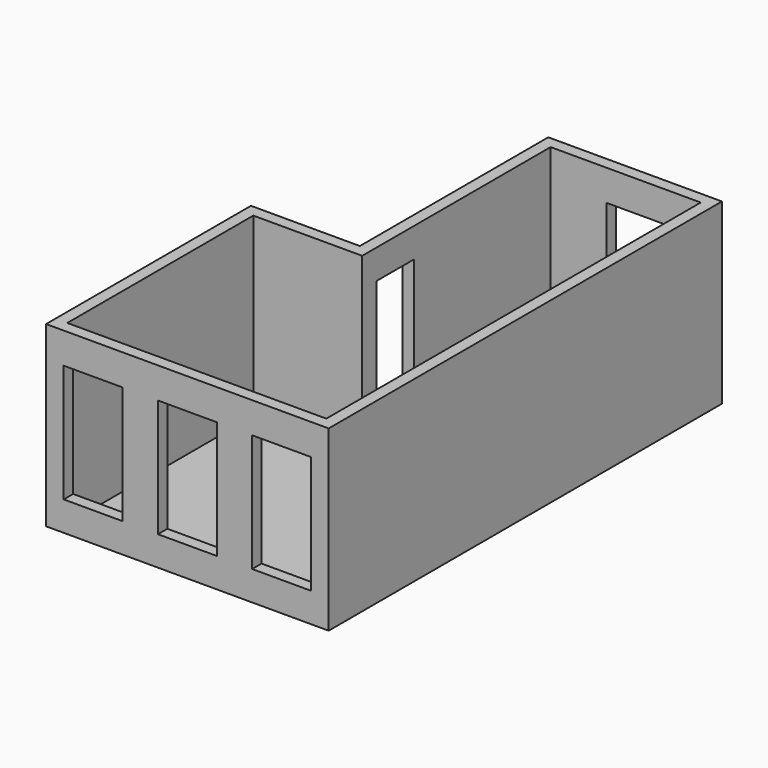
from build123d import *

# Parameters (mm, degrees)
F1_DEPTH  = 25
F4_DEPTH  = 3000
F5_W      = 1000
F5_H      = 2000
F6_DEPTH  = 200
F7_W      = 1200
F7_H      = 2000
F8_DEPTH  = 200
F9_W      = 800
F9_H      = 2500
F10_DEPTH = 200
F11_W     = 450
F11_H     = 2500
F12_DEPTH = 2000


with BuildPart() as f1:
    # F0 (on Top) → F1 (new body)
    with BuildSketch(Plane.XY):
        Polygon((0, 4350), (0, 0), (4800, 0), (4800, 8350), (1850, 8350), (1850, 4350), align=None)
    extrude(amount=F1_DEPTH)

    # F3 (on face) → F4 (join)
    with BuildSketch(Plane.XY.offset(25)):
        Polygon((0, 0), (4800, 0), (4800, 8350), (1850, 8350), (1850, 4350), (0, 4350), align=None)
        Polygon((4600, 8150), (4600, 200), (200, 200), (200, 4150), (2050, 4150), (2050, 8150), align=None, mode=Mode.SUBTRACT)
    extrude(amount=F4_DEPTH)

    # F5 (on face) → F6 (cut, through all)
    with BuildSketch(Plane.XZ):
        with Locations((800, 1500)):
            Rectangle(F5_W, F5_H)
        with Locations((2400, 1500)):
            Rectangle(F5_W, F5_H)
        with Locations((4000, 1500)):
            Rectangle(F5_W, F5_H)
    extrude(amount=-F6_DEPTH, mode=Mode.SUBTRACT)

    # F7 (on face) → F8 (cut, through all)
    with BuildSketch(Plane(origin=(0, 8350, 0), x_dir=(-1, 0, 0), z_dir=(0, 1, 0))):
        with Locations((-3600, 1500)):
            Rectangle(F7_W, F7_H)
    extrude(amount=-F8_DEPTH, mode=Mode.SUBTRACT)

    # F9 (on face) → F10 (cut, through all)
    with BuildSketch(Plane.YZ.offset(2050)):
        with Locations((4850, 1275)):
            Rectangle(F9_W, F9_H)
    extrude(amount=-F10_DEPTH, mode=Mode.SUBTRACT)

    # F11 (on face) → F12 (join)
    with BuildSketch(Plane.XY.offset(25)):
        with Locations((4375, 1933.843195)):
            Rectangle(F11_W, F11_H)
    extrude(amount=F12_DEPTH)


solid = f1.part
